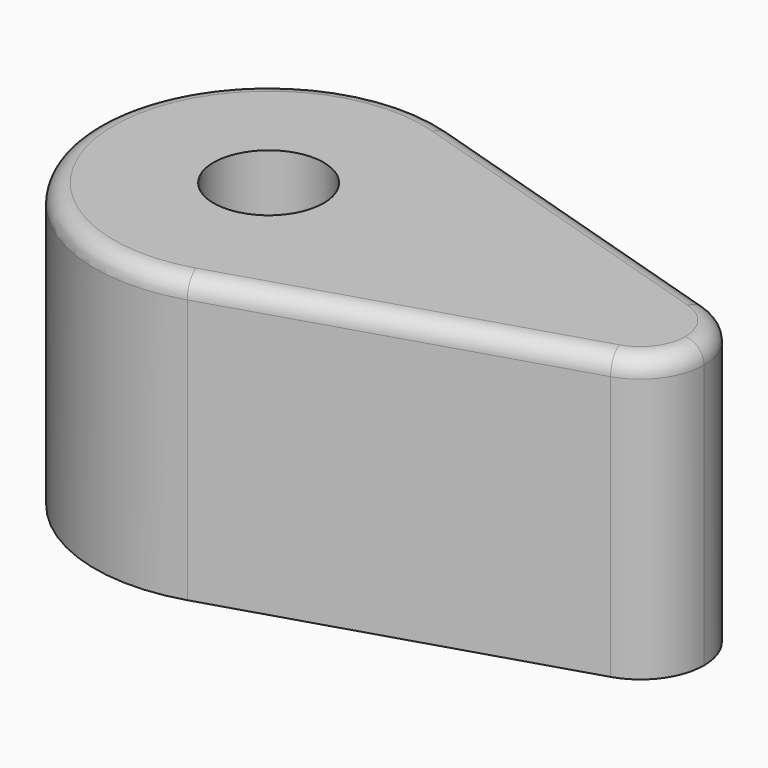
from build123d import *

# Parameters (mm, degrees)
F1_DEPTH      = 37.5
F2_R          = 14.5799335076
F3_DEPTH      = 37.501
F3_DEPTH_BACK = 37.501
F4_R          = 5


with BuildPart() as f1:
    # F0 (on Top) → F1 (new body, symmetric)
    with BuildSketch(Plane.XY):
        with BuildLine():
            ThreePointArc((13.6289698518, -43.9534703049), (37.0461490082, -27.2990698509), (46.0180005113, 0))
            ThreePointArc((46.0180005113, 0), (37.0461490082, 27.2990698509), (13.6289698518, 43.9534703049))
            ThreePointArc((13.6289698518, 43.9534703049), (-46.0180005113, 0), (13.6289698518, -43.9534703049))
        make_face()
        with BuildLine():
            ThreePointArc((13.6289698518, 43.9534703049), (37.0461490082, 27.2990698509), (46.0180005113, 0))
            ThreePointArc((46.0180005113, 0), (37.0461490082, -27.2990698509), (13.6289698518, -43.9534703049))
            Line((13.6289698518, -43.9534703049), (103.4320995684, -16.1075655557))
            ThreePointArc((103.4320995684, -16.1075655557), (81.5733594357, 0), (103.4320995684, 16.1075655557))
            Line((103.4320995684, 16.1075655557), (13.6289698518, 43.9534703049))
        make_face()
        with BuildLine():
            ThreePointArc((115.3016614259, 0), (112.0137598054, 10.0042511816), (103.4320995684, 16.1075655557))
            ThreePointArc((103.4320995684, 16.1075655557), (81.5733594357, 0), (103.4320995684, -16.1075655557))
            ThreePointArc((103.4320995684, -16.1075655557), (112.0137598054, -10.0042511816), (115.3016614259, 0))
        make_face()
    extrude(amount=F1_DEPTH, both=True)

    # F2 (on Top) → F3 (cut, two sides)
    with BuildSketch(Plane.XY) as f3_sk:
        Circle(F2_R)
    extrude(amount=-F3_DEPTH, mode=Mode.SUBTRACT)
    extrude(f3_sk.sketch, amount=F3_DEPTH_BACK, mode=Mode.SUBTRACT)

    # F4
    f4_edges = [f1.edges().sort_by_distance(p)[0] for p in [
        (58.530535, -30.030518, 37.5),
    ]]
    fillet(f4_edges, radius=F4_R)


solid = f1.part
